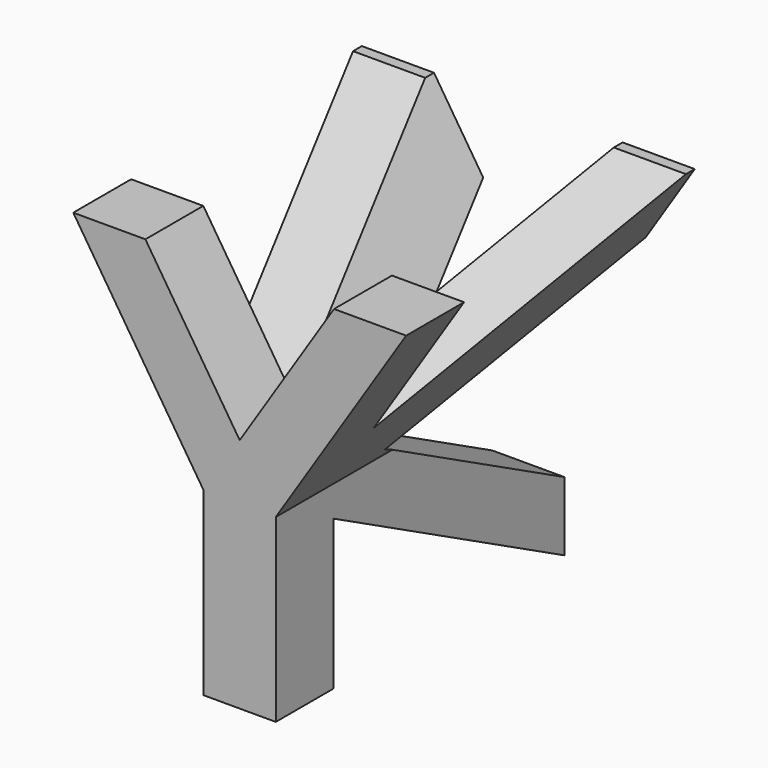
from build123d import *

# Parameters (mm, degrees)
F1_DEPTH = 30
F3_DEPTH = 50


with BuildPart() as f1:
    # F0 (on Front) → F1 (new body)
    with BuildSketch(Plane.XZ):
        Polygon((-3, 0), (0, 0), (3, 0), (3, 15), (13.842538, 31.805932), (7.842538, 31.805932), (0, 19.649999), (-7.842538, 31.805932), (-13.842538, 31.805932), (-3, 15), align=None)
    extrude(amount=F1_DEPTH)

    # F2 (on Right) → F3 (cut, symmetric)
    with BuildSketch(Plane.YZ):
        Polygon((-23.980264, 0), (0, 0), (-23.980264, 12.434211), align=None)
        Polygon((-23.980264, 20.131581), (0, 32.269739), (-23.980264, 32.269739), align=None)
        Polygon((0, 5.729885), (0, 25.460526), (-19.255204, 15.714065), align=None)
    extrude(amount=F3_DEPTH, both=True, mode=Mode.SUBTRACT)


solid = f1.part
